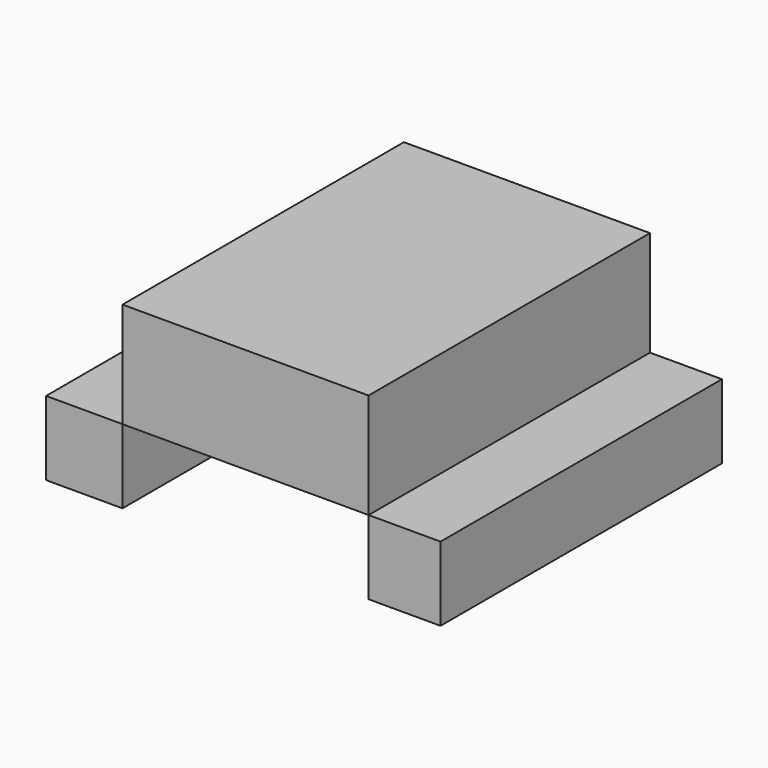
from build123d import *

# Parameters (mm, degrees)
F0_W     = 17.2719992697
F0_H     = 16.7580059669
F1_DEPTH = 79.502
F0_W_2   = 55.6260049343
F0_H_2   = 23.787911917
F0_W_3   = 16.2559971213


with BuildPart() as f1:
    # F0 (on Front) → F1 (new body)
    with BuildSketch(Plane.XZ):
        with Locations((-36.1950006336, 8.3790029835)):
            Rectangle(F0_W, F0_H)
    extrude(amount=F1_DEPTH)


with BuildPart() as f1b:
    # F0 (on Front) → F1, piece 2 (new body)
    with BuildSketch(Plane.XZ):
        with Locations((0.2540014684, 28.6519619254)):
            Rectangle(F0_W_2, F0_H_2)
    extrude(amount=F1_DEPTH)


with BuildPart() as f1c:
    # F0 (on Front) → F1, piece 3 (new body)
    with BuildSketch(Plane.XZ):
        with Locations((36.1950024962, 8.3790029835)):
            Rectangle(F0_W_3, F0_H)
    extrude(amount=F1_DEPTH)


solid = Compound([f1.part, f1b.part, f1c.part])
